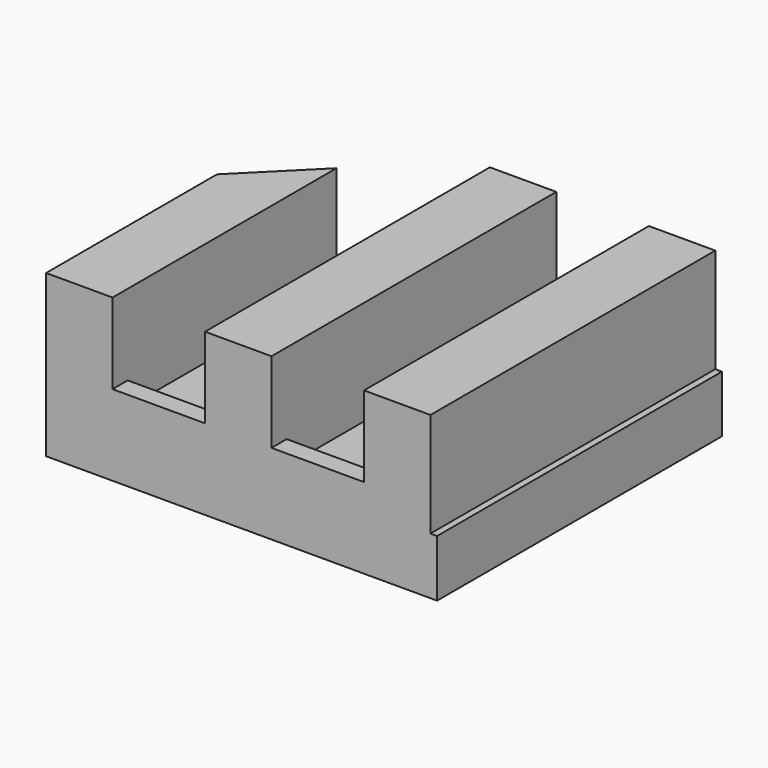
from build123d import *

# Parameters (mm, degrees)
F1_DEPTH = 100
F2_SIZE2 = 15
F2_SIZE  = 15
F3_W     = 8.609191
F3_H     = 79.327516
F3_W_2   = 51.655116
F4_DEPTH = 17.001
F5_W     = 26.5
F5_H     = 2.5
F6_DEPTH = 2


with BuildPart() as f1:
    # F0 (on Front) → F1 (new body)
    with BuildSketch(Plane.XZ):
        Polygon((7, 0), (0, 0), (0, -17), (208, -17), (208, 0), (201, 0), (201, -11), (191.25, -11), (191.25, 0), (184.25, 0), (184.25, -11), (174.5, -11), (174.5, 0), (167.5, 0), (167.5, -11), (157.75, -11), (157.75, 0), (150.75, 0), (150.75, -11), (141, -11), (141, 0), (134, 0), (134, -11), (124.25, -11), (124.25, 0), (117.25, 0), (117.25, -11), (107.5, -11), (107.5, 0), (100.5, 0), (100.5, -11), (90.75, -11), (90.75, 0), (83.75, 0), (83.75, -11), (74, -11), (74, 0), (67, 0), (67, -11), (57.25, -11), (57.25, 0), (50.25, 0), (50.25, -11), (40.5, -11), (40.5, 0), (33.5, 0), (33.5, -11), (23.75, -11), (23.75, 0), (16.75, 0), (16.75, -11), (7, -11), align=None)
    extrude(amount=F1_DEPTH)

    # F2
    f2_edges = [f1.edges().sort_by_distance(p)[0] for p in [
        (0, 0, -8.5),
    ]]
    chamfer(f2_edges, length=F2_SIZE, length2=F2_SIZE2)

    # F3 (on Top) → F4 (cut, through all)
    with BuildSketch(Plane.XY):
        Polygon((214.614749, -116.838969), (214.614749, 11.068958), (41.201111, 11.068958), (41.201111, -37.511453), (49.810302, -37.511453), (49.810302, -116.838969), align=None)
        with Locations((45.505707, -77.175211)):
            Rectangle(F3_W, F3_H)
        with Locations((15.373553, -77.175211)):
            Rectangle(F3_W_2, F3_H)
    extrude(amount=-F4_DEPTH, mode=Mode.SUBTRACT)

    # F5 (on face) → F6 (join)
    with BuildSketch(Plane.XZ.offset(37.511453)):
        with Locations((20.25, -9.75)):
            Rectangle(F5_W, F5_H)
    extrude(amount=-F6_DEPTH)


solid = f1.part
